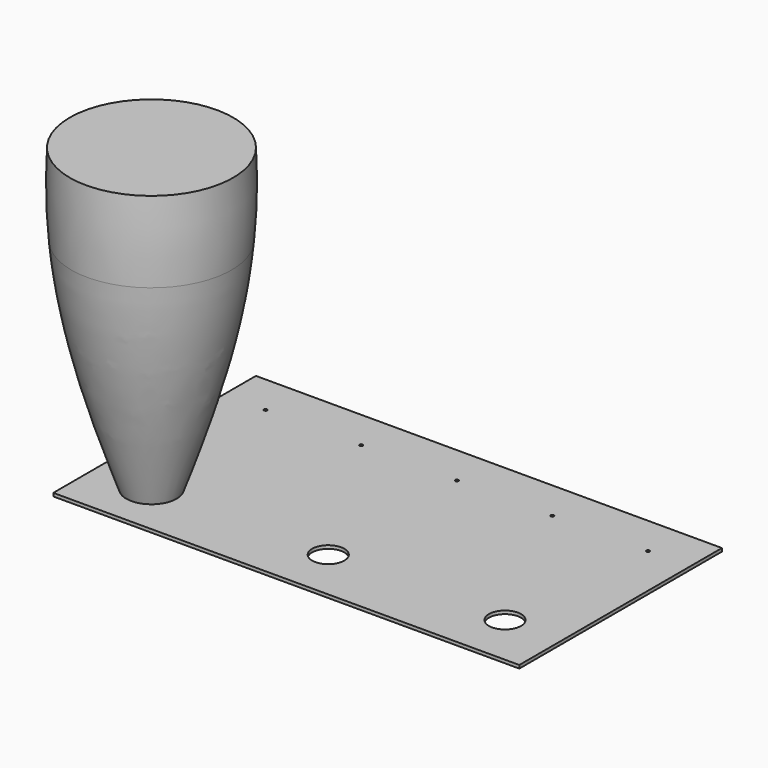
from build123d import *

# Parameters (mm, degrees)
F0_R     = 30
F1_DEPTH = 3
F2_D     = 40.2
F5_W     = 580
F5_H     = 315.2379229665
F5_R     = 20
F6_DEPTH = 4
F7_D     = 4


with BuildPart() as f1:
    # F0 (on Top) → F1 (new body)
    with BuildSketch(Plane.XY):
        Circle(F0_R)
    extrude(amount=F1_DEPTH)

    # F2 (through all)
    with Locations(Plane(origin=(0, 0, 0), x_dir=(1, 0, 0), z_dir=(0, 0, -1))):
        with Locations((0, 0)):
            Hole(F2_D / 2)


with BuildPart() as f4:
    # F3 (on Front) → F4 (revolve)
    with BuildSketch(Plane.XZ):
        with BuildLine():
            add(Edge.make_bspline(
                [(-29.9813615223, 0), (-65.166841091, 97.1639059309), (-87.3666357632, 176.0308412026), (-97.0208410554, 252.1449828859)],
                knots=[0, 0, 0, 0, 247.9757068516, 247.9757068516, 247.9757068516, 247.9757068516], degree=3))
            Line((-29.9813615223, 0), (-28.4487532996, 1.6315784674))
            add(Edge.make_bspline(
                [(-28.4487532996, 1.6315784674), (-32.9416470115, 13.910463026), (-45.8304254612, 49.3759050652), (-68.6339937566, 115.6015900483), (-86.5483860298, 187.1340520039), (-94.8531130281, 235.549180933), (-97.0208410554, 252.1449828859)],
                knots=[1.0127099516, 1.0127099516, 1.0127099516, 1.0127099516, 40.2546071756, 114.1937737582, 211.0358998816, 261.2115168109, 261.2115168109, 261.2115168109, 261.2115168109], degree=3))
        make_face()
        with BuildLine():
            Line((-28.4487532996, 1.6315784674), (-29.9813615223, 0))
            Line((-29.9813615223, 0), (0, 0))
            Line((0, 0), (0, 378.4815072975))
            Line((0, 378.4815072975), (-99.6012761731, 378.4815072975))
            Line((-99.6012761731, 378.4815072975), (-99.6275808964, 378.4815072975))
            add(Edge.make_bspline(
                [(-99.7131752316, 276.7598645232), (-100.1215578737, 281.4518790626), (-101.9058532426, 305.6792064189), (-101.8726660682, 339.6788212844), (-100.3129511913, 368.8706913738), (-99.6275808964, 378.4815072975)],
                knots=[285.9679856365, 285.9679856365, 285.9679856365, 285.9679856365, 300.097923122, 358.853407957, 387.7717150864, 387.7717150864, 387.7717150864, 387.7717150864], degree=3))
            add(Edge.make_bspline(
                [(-97.0208410554, 252.1449828859), (-98.0647979289, 260.3755807421), (-98.9620571629, 268.5739897303), (-99.7131752316, 276.7598645232)],
                knots=[247.9757068516, 247.9757068516, 247.9757068516, 247.9757068516, 274.7905440957, 274.7905440957, 274.7905440957, 274.7905440957], degree=3))
            add(Edge.make_bspline(
                [(-28.4487532996, 1.6315784674), (-32.9416470115, 13.910463026), (-45.8304254612, 49.3759050652), (-68.6339937566, 115.6015900483), (-86.5483860298, 187.1340520039), (-94.8531130281, 235.549180933), (-97.0208410554, 252.1449828859)],
                knots=[1.0127099516, 1.0127099516, 1.0127099516, 1.0127099516, 40.2546071756, 114.1937737582, 211.0358998816, 261.2115168109, 261.2115168109, 261.2115168109, 261.2115168109], degree=3))
        make_face()
        with BuildLine():
            add(Edge.make_bspline(
                [(-99.7131752316, 276.7598645232), (-102.8020686949, 310.4234071702), (-103.4194542381, 343.874974207), (-101.6040334854, 378.4815072975)],
                knots=[274.7905440957, 274.7905440957, 274.7905440957, 274.7905440957, 385.0637207528, 385.0637207528, 385.0637207528, 385.0637207528], degree=3))
            add(Edge.make_bspline(
                [(-99.7131752316, 276.7598645232), (-100.1215578737, 281.4518790626), (-101.9058532426, 305.6792064189), (-101.8726660682, 339.6788212844), (-100.3129511913, 368.8706913738), (-99.6275808964, 378.4815072975)],
                knots=[285.9679856365, 285.9679856365, 285.9679856365, 285.9679856365, 300.097923122, 358.853407957, 387.7717150864, 387.7717150864, 387.7717150864, 387.7717150864], degree=3))
            Line((-99.6275808964, 378.4815072975), (-101.6040334854, 378.4815072975))
        make_face()
        with BuildLine():
            Line((-28.4487532996, 1.6315784674), (-29.9813615223, 0))
            Line((-29.9813615223, 0), (0, 0))
            Line((0, 0), (0, 378.4815072975))
            Line((0, 378.4815072975), (-99.6012761731, 378.4815072975))
            Line((-99.6012761731, 378.4815072975), (-99.6275808964, 378.4815072975))
            add(Edge.make_bspline(
                [(-99.7131752316, 276.7598645232), (-100.1215578737, 281.4518790626), (-101.9058532426, 305.6792064189), (-101.8726660682, 339.6788212844), (-100.3129511913, 368.8706913738), (-99.6275808964, 378.4815072975)],
                knots=[285.9679856365, 285.9679856365, 285.9679856365, 285.9679856365, 300.097923122, 358.853407957, 387.7717150864, 387.7717150864, 387.7717150864, 387.7717150864], degree=3))
            add(Edge.make_bspline(
                [(-97.0208410554, 252.1449828859), (-98.0647979289, 260.3755807421), (-98.9620571629, 268.5739897303), (-99.7131752316, 276.7598645232)],
                knots=[247.9757068516, 247.9757068516, 247.9757068516, 247.9757068516, 274.7905440957, 274.7905440957, 274.7905440957, 274.7905440957], degree=3))
            add(Edge.make_bspline(
                [(-28.4487532996, 1.6315784674), (-32.9416470115, 13.910463026), (-45.8304254612, 49.3759050652), (-68.6339937566, 115.6015900483), (-86.5483860298, 187.1340520039), (-94.8531130281, 235.549180933), (-97.0208410554, 252.1449828859)],
                knots=[1.0127099516, 1.0127099516, 1.0127099516, 1.0127099516, 40.2546071756, 114.1937737582, 211.0358998816, 261.2115168109, 261.2115168109, 261.2115168109, 261.2115168109], degree=3))
        make_face()
    revolve(axis=Axis((0, 0, 47.617726028), (0, 0, 1)))


with BuildPart() as f6:
    # F5 (on Top) → F6 (new body)
    with BuildSketch(Plane.XY):
        with Locations((220, 92.3810385168)):
            Rectangle(F5_W, F5_H)
        Circle(F5_R, mode=Mode.SUBTRACT)
        with Locations((220, 0)):
            Circle(F5_R, mode=Mode.SUBTRACT)
        with Locations((440, 0)):
            Circle(F5_R, mode=Mode.SUBTRACT)
    extrude(amount=F6_DEPTH)

    # F7 (through all)
    with Locations(Plane(origin=(0, 0, 0), x_dir=(1, 0, 0), z_dir=(0, 0, -1))):
        with Locations((-18, -200), (101, -200), (220, -200), (339, -200), (458, -200)):
            Hole(F7_D / 2)


solid = Compound([f1.part, f4.part, f6.part])
